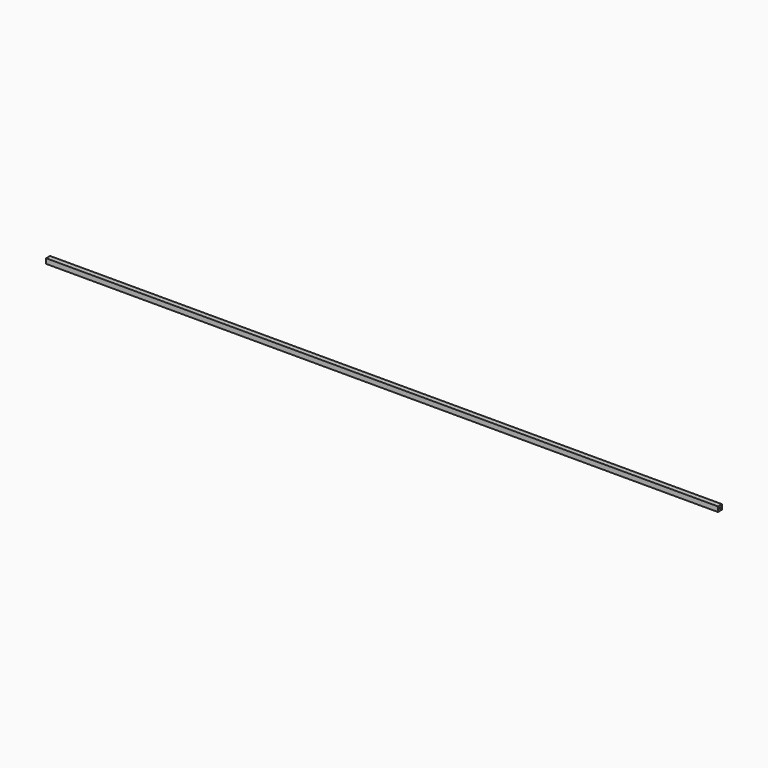
from build123d import *

# Parameters (mm, degrees)
F0_W     = 2032
F0_H     = 15
F1_DEPTH = 7.5
F2_W     = 5
F2_H     = 5
F3_DEPTH = 2032


with BuildPart() as f1:
    # F0 (on Front) → F1 (new body, symmetric)
    with BuildSketch(Plane.XZ):
        with Locations((966.749246, 32.093956)):
            Rectangle(F0_W, F0_H)
    extrude(amount=F1_DEPTH, both=True)

    # F2 (on face) → F3 (cut)
    with BuildSketch(Plane(origin=(-49.250754, 0, 0), x_dir=(0, -1, 0), z_dir=(-1, 0, 0))):
        with Locations((0, 32.093956)):
            Rectangle(F2_W, F2_H)
    extrude(amount=-F3_DEPTH, mode=Mode.SUBTRACT)


solid = f1.part
